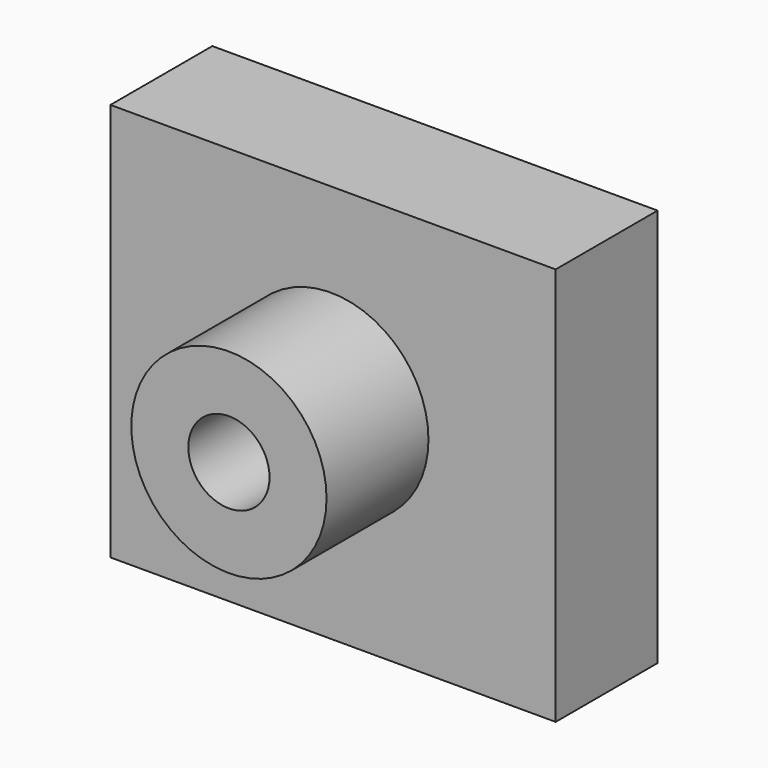
from build123d import *

# Parameters (mm, degrees)
F0_R     = 19.4628925801
F0_R_2   = 14.0890060642
F0_R_3   = 8.0974467075
F1_DEPTH = 50.8
F2_W     = 88.7702181935
F2_H     = 79.4259868562
F3_DEPTH = 25.4


with BuildPart() as f1:
    # F0 (on Front) → F1 (new body)
    with BuildSketch(Plane.XZ):
        Circle(F0_R)
        Circle(F0_R_2, mode=Mode.SUBTRACT)
        Circle(F0_R_2)
        Circle(F0_R_3, mode=Mode.SUBTRACT)
    extrude(amount=F1_DEPTH)

    # F2 (on Front) → F3 (join)
    with BuildSketch(Plane.XZ):
        with Locations((0.4380121827, -1.6060378402)):
            Rectangle(F2_W, F2_H)
    extrude(amount=F3_DEPTH)


solid = f1.part
